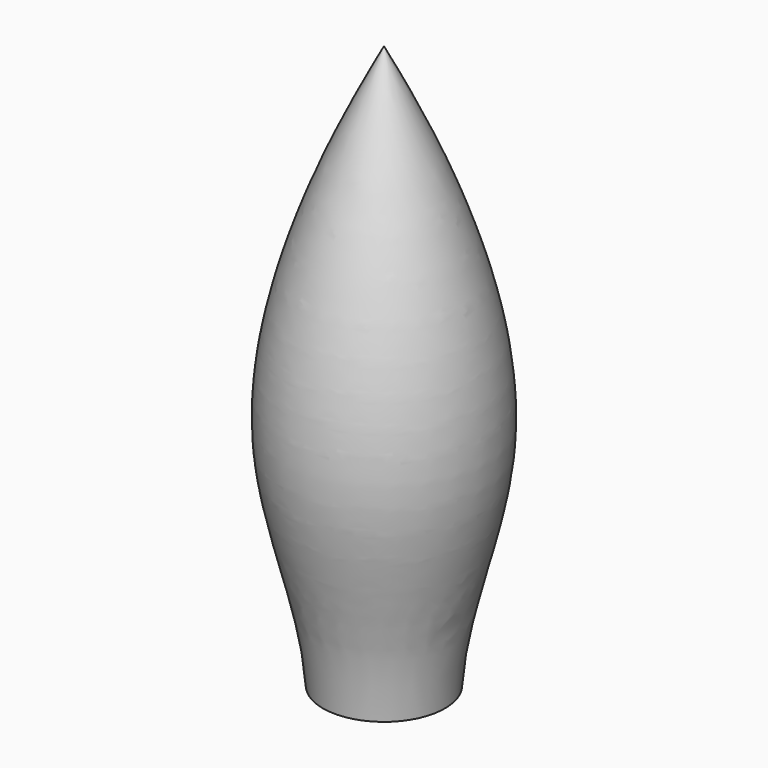
from build123d import *

# Parameters (mm, degrees)
F3_W     = 5
F3_H     = 5
F4_DEPTH = 3


with BuildPart() as f2:
    # F0 (on Front) → F2 (revolve)
    with BuildSketch(Plane.XZ):
        with BuildLine():
            Line((0, 0), (0, 59.1171830893))
            add(Edge.make_bspline(
                [(0, 59.1171830893), (-2.7381684295, 53.9204760508), (-8.0451749302, 43.0126236449), (-13.1291565791, 21.2866872374), (-6.8016306182, 7.2027664188), (-6.4102956094, 0)],
                knots=[0, 0, 0, 0, 0.3126235846, 0.6538036512, 1, 1, 1, 1], degree=3))
            Line((-6.4102956094, 0), (0, 0))
        make_face()
    revolve(axis=Axis((0, 0, 20.6554001197), (0, 0, -1)))

    # F3 (on face) → F4 (cut)
    with BuildSketch(Plane(origin=(0, 0, 0), x_dir=(1, 0, 0), z_dir=(0, 0, -1))):
        Rectangle(F3_W, F3_H)
    extrude(amount=-F4_DEPTH, mode=Mode.SUBTRACT)


solid = f2.part
